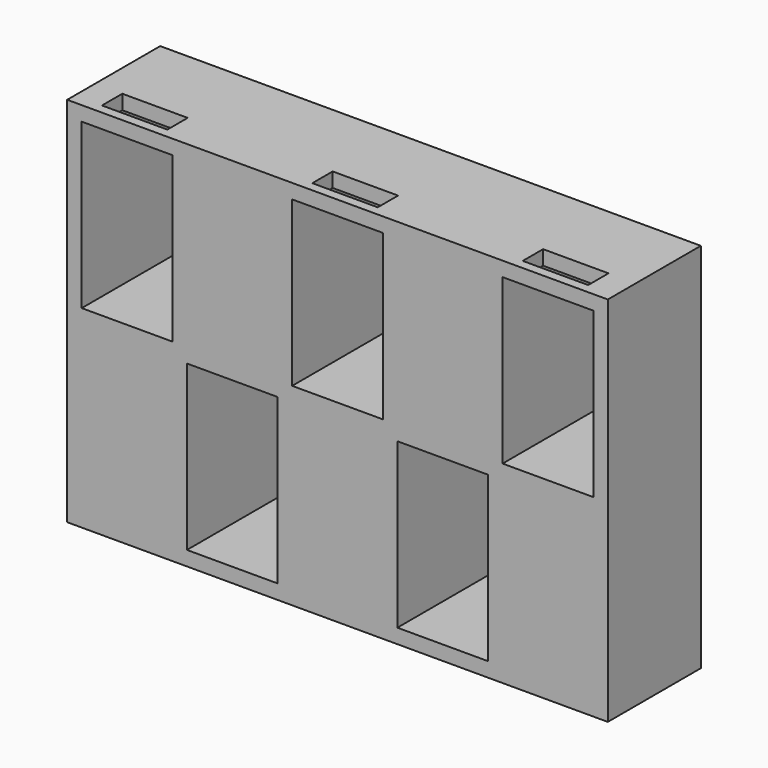
from build123d import *

# Parameters (mm, degrees)
F0_W     = 74.4
F0_H     = 51.18
F0_W_2   = 12.48
F0_H_2   = 22.59
F1_DEPTH = 16
F2_W     = 9
F2_H     = 3.5
F3_DEPTH = 25


with BuildPart() as f1:
    # F0 (on Front) → F1 (new body)
    with BuildSketch(Plane.XZ):
        Rectangle(F0_W, F0_H)
        with Locations((-14.48, -12.295)):
            Rectangle(F0_W_2, F0_H_2, mode=Mode.SUBTRACT)
        with Locations((14.48, -12.295)):
            Rectangle(F0_W_2, F0_H_2, mode=Mode.SUBTRACT)
        with Locations((-28.96, 12.295)):
            Rectangle(F0_W_2, F0_H_2, mode=Mode.SUBTRACT)
        with Locations((0, 12.295)):
            Rectangle(F0_W_2, F0_H_2, mode=Mode.SUBTRACT)
        with Locations((28.96, 12.295)):
            Rectangle(F0_W_2, F0_H_2, mode=Mode.SUBTRACT)
    extrude(amount=F1_DEPTH)

    # F2 (on face) → F3 (cut)
    with BuildSketch(Plane(origin=(0, 0, 23.59), x_dir=(1, 0, 0), z_dir=(0, 0, -1))):
        with Locations((-0.005, 12.95)):
            Rectangle(F2_W, F2_H)
        with Locations((-28.955, 12.95)):
            Rectangle(F2_W, F2_H)
        with Locations((28.955, 12.95)):
            Rectangle(F2_W, F2_H)
    extrude(amount=-F3_DEPTH, mode=Mode.SUBTRACT)


solid = f1.part
